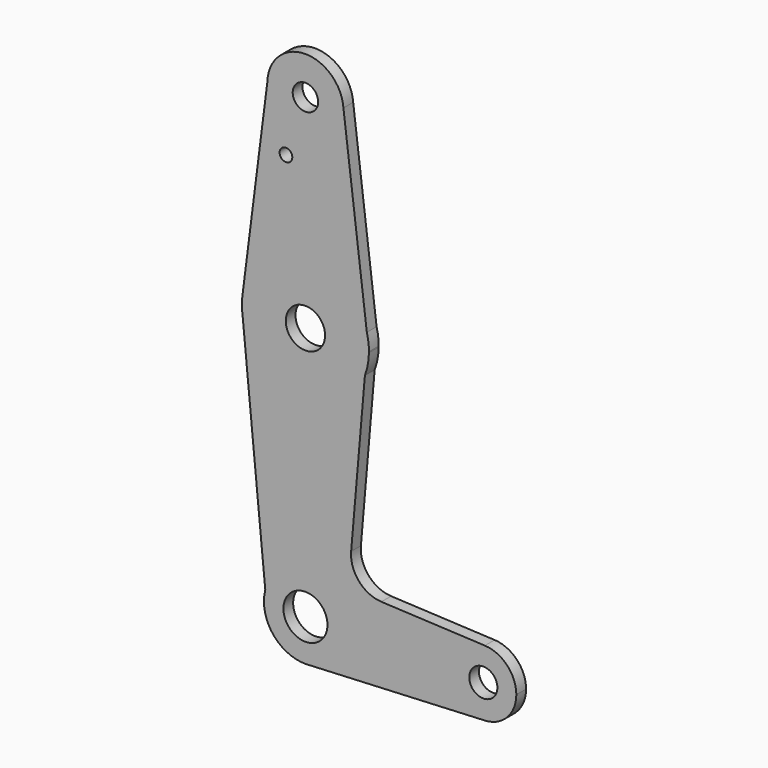
from build123d import *

# Parameters (mm, degrees)
F0_R     = 5.503062
F0_R_2   = 4.914762
F0_R_3   = 3.514615
F0_R_4   = 1.5875
F0_R_5   = 3.175
F1_DEPTH = 3.048


with BuildPart() as f1:
    # F0 (on Front) → F1 (new body)
    with BuildSketch(Plane.XZ):
        with BuildLine():
            ThreePointArc((0.979721, -10.322526), (7.670497, -6.976953), (10.368915, 0))
            ThreePointArc((10.368915, 0), (1.31887, 10.284697), (-10.033409, 2.616316))
            ThreePointArc((-10.033409, 2.616316), (-8.204961, -6.339797), (0, -10.368915))
            Line((0, -10.368915), (0.979721, -10.322526))
        make_face()
        Circle(F0_R, mode=Mode.SUBTRACT)
        with BuildLine():
            ThreePointArc((-10.033409, 2.616316), (1.31887, 10.284697), (10.368915, 0))
            ThreePointArc((10.368915, 0), (7.670497, -6.976953), (0.979721, -10.322526))
            Line((0.979721, -10.322526), (44.840429, -8.245762))
            ThreePointArc((44.840429, -8.245762), (36.195, 0), (44.840429, 8.245762))
            Line((44.840429, 8.245762), (18.967666, 9.470814))
            ThreePointArc((18.967666, 9.470814), (13.359845, 12.177672), (11.422922, 18.095701))
            Line((11.422922, 18.095701), (14.859238, 57.912632))
            ThreePointArc((14.859238, 57.912632), (-1.667868, 47.712858), (-15.69875, 61.141))
            Line((-15.69875, 61.141), (-10.033409, 2.616316))
        make_face()
        with BuildLine():
            ThreePointArc((0, -10.368915), (0.490409, -10.357311), (0.979721, -10.322526))
            Line((0.979721, -10.322526), (0, -10.368915))
        make_face()
        with BuildLine():
            Line((-15.859738, 62.804056), (-15.69875, 61.141))
            ThreePointArc((-15.69875, 61.141), (-1.667868, 47.712858), (14.859238, 57.912632))
            ThreePointArc((14.859238, 57.912632), (15.597397, 60.544187), (15.873236, 63.263354))
            Line((15.873236, 63.263354), (15.341352, 67.581488))
            ThreePointArc((15.341352, 67.581488), (-1.060107, 79.339564), (-15.74842, 65.50072))
            ThreePointArc((-15.74842, 65.50072), (-15.861492, 64.154758), (-15.859738, 62.804056))
        make_face()
        with Locations((0, 63.5)):
            Circle(F0_R_2, mode=Mode.SUBTRACT)
        with BuildLine():
            ThreePointArc((-15.859738, 62.804056), (-15.801138, 61.970409), (-15.69875, 61.141))
            Line((-15.69875, 61.141), (-15.859738, 62.804056))
        make_face()
        with BuildLine():
            ThreePointArc((44.840429, 8.245762), (36.195, 0), (44.840429, -8.245762))
            ThreePointArc((44.840429, -8.245762), (50.423609, -5.697457), (52.705, 0))
            ThreePointArc((52.705, 0), (50.423609, 5.697457), (44.840429, 8.245762))
        make_face()
        with Locations((44.45, 0)):
            Circle(F0_R_3, mode=Mode.SUBTRACT)
        with BuildLine():
            Line((-9.522794, 114.50498), (-15.74842, 65.50072))
            ThreePointArc((-15.74842, 65.50072), (-1.060107, 79.339564), (15.341352, 67.581488))
            Line((15.341352, 67.581488), (9.497121, 115.028233))
            ThreePointArc((9.497121, 115.028233), (9.518028, 114.664383), (9.525, 114.3))
            ThreePointArc((9.525, 114.3), (-0.102496, 104.775551), (-9.522794, 114.50498))
        make_face()
        with Locations((-4.867868, 100.0252)):
            Circle(F0_R_4, mode=Mode.SUBTRACT)
        with BuildLine():
            Line((15.341352, 67.581488), (15.873236, 63.263354))
            ThreePointArc((15.873236, 63.263354), (15.874559, 63.381674), (15.875, 63.5))
            ThreePointArc((15.875, 63.5), (15.741023, 65.558114), (15.341352, 67.581488))
        make_face()
        with BuildLine():
            ThreePointArc((9.497121, 115.028233), (-0.261941, 123.821398), (-9.522794, 114.50498))
            ThreePointArc((-9.522794, 114.50498), (-0.102496, 104.775551), (9.525, 114.3))
            ThreePointArc((9.525, 114.3), (9.518028, 114.664383), (9.497121, 115.028233))
        make_face()
        with Locations((0, 114.3)):
            Circle(F0_R_5, mode=Mode.SUBTRACT)
    extrude(amount=F1_DEPTH)


solid = f1.part
